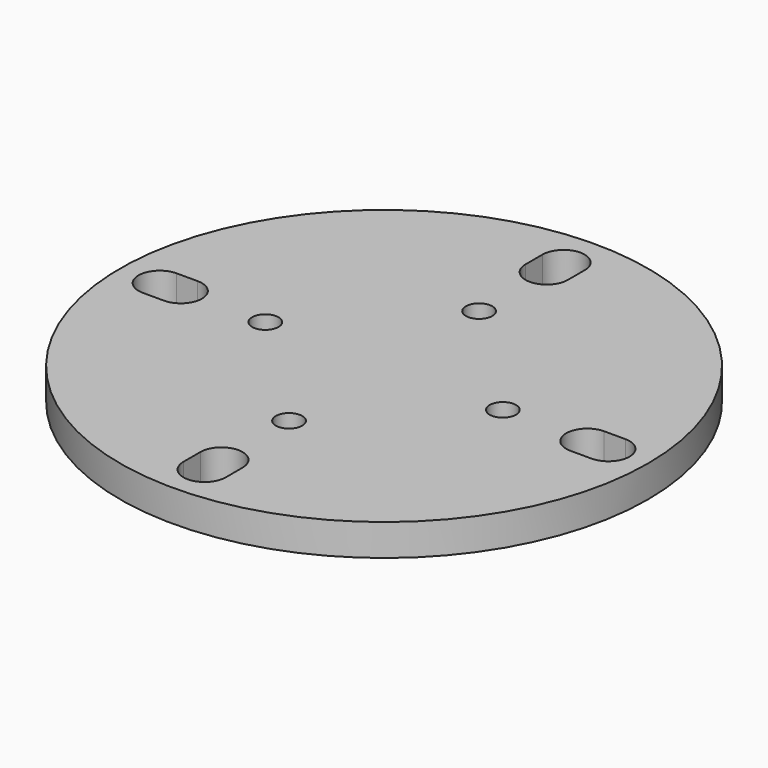
from build123d import *

# Parameters (mm, degrees)
F0_R     = 25
F0_R_2   = 1.25
F1_DEPTH = 3


with BuildPart() as f1:
    # F0 (on Top) → F1 (new body)
    with BuildSketch(Plane.XY):
        Circle(F0_R)
        with BuildLine():
            Line((-2, -21.25), (-2, -19.25))
            ThreePointArc((-2, -19.25), (0, -17.25), (2, -19.25))
            Line((2, -19.25), (2, -21.25))
            ThreePointArc((2, -21.25), (0, -23.25), (-2, -21.25))
        make_face(mode=Mode.SUBTRACT)
        with Locations((0, -11.25)):
            Circle(F0_R_2, mode=Mode.SUBTRACT)
        with BuildLine():
            Line((-19.25, -2), (-21.25, -2))
            ThreePointArc((-21.25, -2), (-23.25, 0), (-21.25, 2))
            Line((-21.25, 2), (-19.25, 2))
            ThreePointArc((-19.25, 2), (-17.25, 0), (-19.25, -2))
        make_face(mode=Mode.SUBTRACT)
        with Locations((-11.25, 0)):
            Circle(F0_R_2, mode=Mode.SUBTRACT)
        with Locations((11.25, 0)):
            Circle(F0_R_2, mode=Mode.SUBTRACT)
        with Locations((0, 11.25)):
            Circle(F0_R_2, mode=Mode.SUBTRACT)
        with BuildLine():
            ThreePointArc((21.25, 2), (23.25, 0), (21.25, -2))
            Line((21.25, -2), (19.25, -2))
            ThreePointArc((19.25, -2), (17.25, 0), (19.25, 2))
            Line((19.25, 2), (21.25, 2))
        make_face(mode=Mode.SUBTRACT)
        with BuildLine():
            Line((2, 21.25), (2, 19.25))
            ThreePointArc((2, 19.25), (0, 17.25), (-2, 19.25))
            Line((-2, 19.25), (-2, 21.25))
            ThreePointArc((-2, 21.25), (0, 23.25), (2, 21.25))
        make_face(mode=Mode.SUBTRACT)
    extrude(amount=F1_DEPTH)


solid = f1.part
